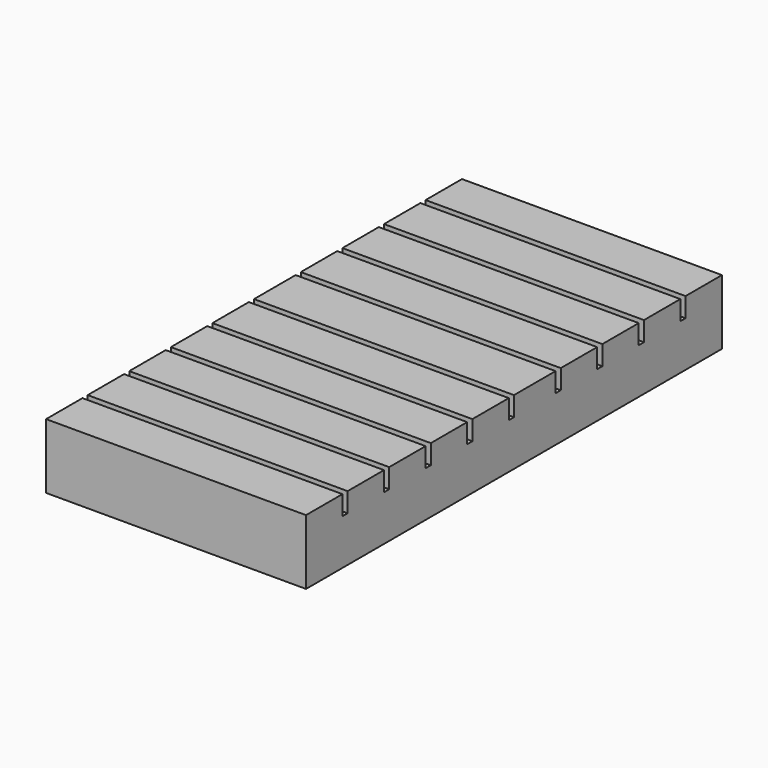
from build123d import *

# Parameters (mm, degrees)
F0_W     = 508
F0_H     = 1016
F1_DEPTH = 88.9
F2_W     = 431.8
F2_H     = 939.8
F6_DEPTH = 88.9
F3_W     = 508
F3_H     = 1016
F4_DEPTH = 38.1
F5_W     = 508
F5_H     = 12.7
F7_DEPTH = 38.1


with BuildPart() as f1:
    # F0 (on Top) → F1 (new body)
    with BuildSketch(Plane.XY):
        Rectangle(F0_W, F0_H)
    extrude(amount=F1_DEPTH)

    # F2 (on face) → F6 (cut)
    with BuildSketch(Plane(origin=(0, 0, 0), x_dir=(1, 0, 0), z_dir=(0, 0, -1))):
        Rectangle(F2_W, F2_H)
    extrude(amount=-F6_DEPTH, mode=Mode.SUBTRACT)

    # F3 (on face) → F4 (join)
    with BuildSketch(Plane.XY.offset(88.9)):
        Rectangle(F3_W, F3_H)
    extrude(amount=F4_DEPTH)

    # F5 (on face) → F7 (cut)
    with BuildSketch(Plane.XY.offset(127)):
        with Locations((0, 412.75)):
            Rectangle(F5_W, F5_H)
        with Locations((0, 311.15)):
            Rectangle(F5_W, F5_H)
        with Locations((0, 209.55)):
            Rectangle(F5_W, F5_H)
        with Locations((0, 107.95)):
            Rectangle(F5_W, F5_H)
        with Locations((0, -6.35)):
            Rectangle(F5_W, F5_H)
        with Locations((0, -107.95)):
            Rectangle(F5_W, F5_H)
        with Locations((0, -209.55)):
            Rectangle(F5_W, F5_H)
        with Locations((0, -311.15)):
            Rectangle(F5_W, F5_H)
        with Locations((0, -412.75)):
            Rectangle(F5_W, F5_H)
    extrude(amount=-F7_DEPTH, mode=Mode.SUBTRACT)


solid = f1.part
